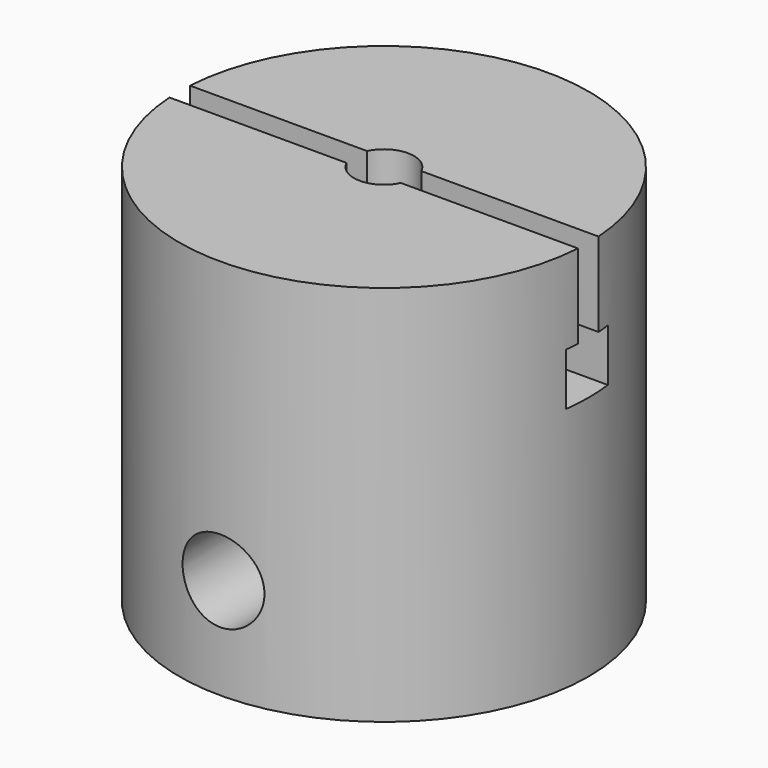
from build123d import *

# Parameters (mm, degrees)
F0_R      = 7.5
F1_DEPTH  = 14
F4_R      = 1.5
F5_DEPTH  = 15.001
F6_R      = 1.1
F7_DEPTH  = 5
F9_DEPTH  = 5
F13_DEPTH = 15.0010001


with BuildPart() as f1:
    # F0 (on Top) → F1 (new body)
    with BuildSketch(Plane.XY):
        Circle(F0_R)
    extrude(amount=F1_DEPTH)

    # F4 (on line) → F5 (cut, through all)
    with BuildSketch(Plane(origin=(0, 7.5, 0), x_dir=(-1, 0, 0), z_dir=(0, 1, 0))):
        with Locations((0, 3.7)):
            Circle(F4_R)
    extrude(amount=-F5_DEPTH, mode=Mode.SUBTRACT)

    # F6 (on face) → F7 (cut)
    with BuildSketch(Plane.XY.offset(14)):
        Circle(F6_R)
    extrude(amount=-F7_DEPTH, mode=Mode.SUBTRACT)

    # F8 (on face) → F9 (cut, through all)
    with BuildSketch(Plane.XY.offset(14)):
        with BuildLine():
            ThreePointArc((-7.5, 0), (-7.4962990893, -0.2355843037), (-7.4852000096, -0.470936107))
            Line((-7.4852000096, -0.470936107), (-0.9940921402, -0.470936107))
            ThreePointArc((-0.9940921402, -0.470936107), (-1.1, 0), (-0.9940921402, 0.470936107))
            Line((-0.9940921402, 0.470936107), (-7.4852000096, 0.470936107))
            ThreePointArc((-7.4852000096, 0.470936107), (-7.4962990893, 0.2355843037), (-7.5, 0))
        make_face()
        with BuildLine():
            Line((0.9940921402, -0.470936107), (7.4852000096, -0.470936107))
            ThreePointArc((7.4852000096, -0.470936107), (7.4962990893, -0.2355843037), (7.5, 0))
            ThreePointArc((7.5, 0), (7.4962990893, 0.2355843037), (7.4852000096, 0.470936107))
            Line((7.4852000096, 0.470936107), (0.9940921402, 0.470936107))
            ThreePointArc((0.9940921402, 0.470936107), (1.0731964765, 0.241348965), (1.1, 0))
            ThreePointArc((1.1, 0), (1.0731964765, -0.241348965), (0.9940921402, -0.470936107))
        make_face()
    extrude(amount=-F9_DEPTH, mode=Mode.SUBTRACT)

    # F12 (on line) → F13 (cut, through all)
    with BuildSketch(Plane.YZ.offset(-7.5)):
        Polygon((-0.9654102032, 9), (-0.470936107, 9), (0.470936107, 9), (0.9545897968, 9), (0.9545897968, 10.92), (-0.9654102032, 10.92), align=None)
    extrude(amount=F13_DEPTH, mode=Mode.SUBTRACT)


solid = f1.part
